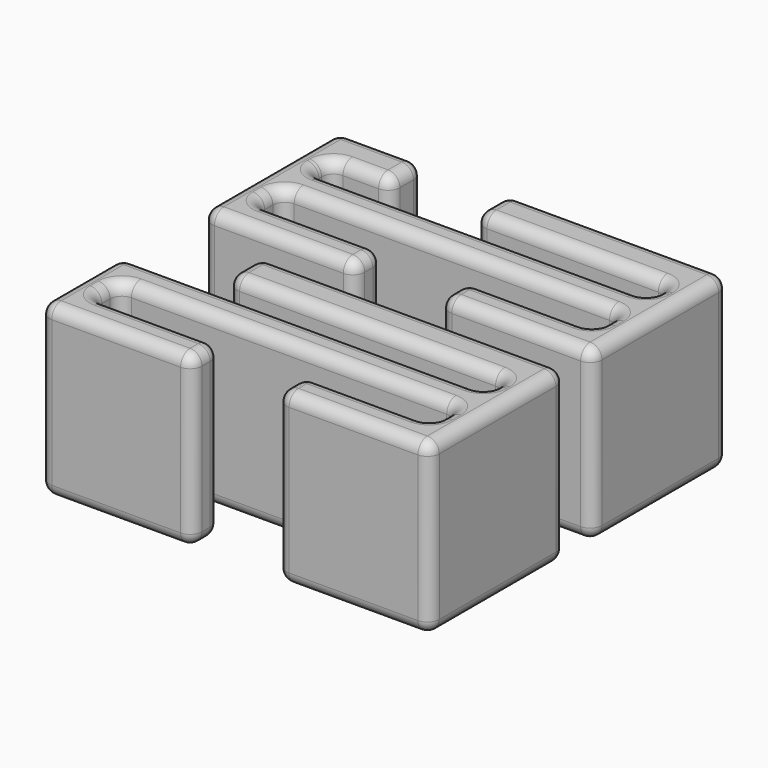
from build123d import *

# Parameters (mm, degrees)
BOX014_W     = 5
BOX014_H     = 3
BOX014_DEPTH = 10
BOX008_W     = 5
BOX008_H     = 2.5
BOX008_DEPTH = 10
BOX007_W     = 20
BOX007_H     = 2
BOX007_DEPTH = 10
BOX006_W     = 20
BOX006_H     = 1.6
BOX006_DEPTH = 10
BOX005_W     = 23
BOX005_H     = 10
BOX005_DEPTH = 10
FILLET_R     = 0.7
BOX019_W     = 5
BOX019_H     = 4
BOX019_DEPTH = 10
BOX018_W     = 5
BOX018_H     = 2.5
BOX018_DEPTH = 10
BOX017_W     = 20
BOX017_H     = 2
BOX017_DEPTH = 10
BOX016_W     = 20
BOX016_H     = 1.6
BOX016_DEPTH = 10
BOX015_W     = 23
BOX015_H     = 10
BOX015_DEPTH = 10
FILLET001_R  = 0.7


with BuildPart() as cubo013:
    # Box014 → Box014 (new body)
    with BuildSketch(Plane(origin=(5, 7.5, 0), x_dir=(1, 0, 0), z_dir=(0, 0, 1))):
        with Locations((2.5, 1.5)):
            Rectangle(BOX014_W, BOX014_H)
    extrude(amount=BOX014_DEPTH)


with BuildPart() as cubo008:
    # Box008 → Box008 (new body)
    with BuildSketch(Plane(origin=(9, 0, 0), x_dir=(1, 0, 0), z_dir=(0, 0, 1))):
        with Locations((2.5, 1.25)):
            Rectangle(BOX008_W, BOX008_H)
    extrude(amount=BOX008_DEPTH)


with BuildPart() as cubo007:
    # Box007 → Box007 (new body)
    with BuildSketch(Plane(origin=(1.5, 2, 0), x_dir=(1, 0, 0), z_dir=(0, 0, 1))):
        with Locations((10, 1)):
            Rectangle(BOX007_W, BOX007_H)
    extrude(amount=BOX007_DEPTH)


with BuildPart() as cubo006:
    # Box006 → Box006 (new body)
    with BuildSketch(Plane(origin=(1.5, 6, 0), x_dir=(1, 0, 0), z_dir=(0, 0, 1))):
        with Locations((10, 0.8)):
            Rectangle(BOX006_W, BOX006_H)
    extrude(amount=BOX006_DEPTH)


with BuildPart() as fillet_body:
    # Box005 → Box005 (new body)
    with BuildSketch(Plane.XY):
        with Locations((11.5, 5)):
            Rectangle(BOX005_W, BOX005_H)
    extrude(amount=BOX005_DEPTH)

    # Cut: cut Cubo006
    add(cubo006.part, mode=Mode.SUBTRACT)

    # Cut001: cut Cubo007
    add(cubo007.part, mode=Mode.SUBTRACT)

    # Cut002: cut Cubo008
    add(cubo008.part, mode=Mode.SUBTRACT)

    # Cut003: cut Cubo013
    add(cubo013.part, mode=Mode.SUBTRACT)

    # Fillet
    fillet_edges = [fillet_body.edges().sort_by_distance(p)[0] for p in [
        (0, 0, 5),
        (0, 5, 10),
        (0, 10, 5),
        (0, 5, 0),
        (4.5, 0, 0),
        (9, 0, 5),
        (4.5, 0, 10),
        (2.5, 10, 10),
        (5, 8.8, 10),
        (3.25, 7.6, 10),
        (1.5, 6.8, 10),
        (11.5, 6, 10),
        (21.5, 6.8, 10),
        (15.75, 7.6, 10),
        (10, 8.8, 10),
        (16.5, 10, 10),
        (23, 5, 10),
        (18.5, 0, 10),
        (14, 1, 10),
        (17.75, 2, 10),
        (21.5, 3, 10),
        (11.5, 4, 10),
        (1.5, 3, 10),
        (5.25, 2, 10),
        (9, 1, 10),
        (2.5, 10, 0),
        (5, 10, 5),
        (5, 8.8, 0),
        (3.25, 7.6, 0),
        (1.5, 6.8, 0),
        (11.5, 6, 0),
        (21.5, 6.8, 0),
        (15.75, 7.6, 0),
        (10, 8.8, 0),
        (16.5, 10, 0),
        (23, 5, 0),
        (18.5, 0, 0),
        (14, 1, 0),
        (17.75, 2, 0),
        (21.5, 3, 0),
        (11.5, 4, 0),
        (1.5, 3, 0),
        (5.25, 2, 0),
        (9, 1, 0),
        (9, 2, 5),
        (5, 7.6, 5),
        (1.5, 7.6, 5),
        (1.5, 6, 5),
        (21.5, 6, 5),
        (21.5, 7.6, 5),
        (10, 7.6, 5),
        (10, 10, 5),
        (23, 10, 5),
        (23, 0, 5),
        (14, 0, 5),
        (14, 2, 5),
        (21.5, 2, 5),
        (21.5, 4, 5),
        (1.5, 4, 5),
        (1.5, 2, 5),
    ]]
    fillet(fillet_edges, radius=FILLET_R)


with BuildPart() as cubo017:
    # Box019 → Box019 (new body)
    with BuildSketch(Plane(origin=(0, 6, 0), x_dir=(1, 0, 0), z_dir=(0, 0, 1))):
        with Locations((2.5, 2)):
            Rectangle(BOX019_W, BOX019_H)
    extrude(amount=BOX019_DEPTH)


with BuildPart() as cubo016:
    # Box018 → Box018 (new body)
    with BuildSketch(Plane(origin=(9, 0, 0), x_dir=(1, 0, 0), z_dir=(0, 0, 1))):
        with Locations((2.5, 1.25)):
            Rectangle(BOX018_W, BOX018_H)
    extrude(amount=BOX018_DEPTH)


with BuildPart() as cubo015:
    # Box017 → Box017 (new body)
    with BuildSketch(Plane(origin=(1.5, 2, 0), x_dir=(1, 0, 0), z_dir=(0, 0, 1))):
        with Locations((10, 1)):
            Rectangle(BOX017_W, BOX017_H)
    extrude(amount=BOX017_DEPTH)


with BuildPart() as cubo014:
    # Box016 → Box016 (new body)
    with BuildSketch(Plane(origin=(1.5, 6, 0), x_dir=(1, 0, 0), z_dir=(0, 0, 1))):
        with Locations((10, 0.8)):
            Rectangle(BOX016_W, BOX016_H)
    extrude(amount=BOX016_DEPTH)


with BuildPart() as fillet001:
    # Box015 → Box015 (new body)
    with BuildSketch(Plane.XY):
        with Locations((11.5, 5)):
            Rectangle(BOX015_W, BOX015_H)
    extrude(amount=BOX015_DEPTH)

    # Cut004: cut Cubo014
    add(cubo014.part, mode=Mode.SUBTRACT)

    # Cut005: cut Cubo015
    add(cubo015.part, mode=Mode.SUBTRACT)

    # Cut006: cut Cubo016
    add(cubo016.part, mode=Mode.SUBTRACT)

    # Cut007: cut Cubo017
    add(cubo017.part, mode=Mode.SUBTRACT)


with BuildPart() as fillet001_1:
    # Cut007 placement: moved
    add(fillet001.part.moved(Location((0, -12, 0))))

    # Fillet001
    fillet001_edges = [fillet001_1.edges().sort_by_distance(p)[0] for p in [
        (0, -9, 10),
        (0, -6, 5),
        (0, -9, 0),
        (0, -12, 5),
        (14, -2, 10),
        (23, -7, 10),
        (18.5, -12, 10),
        (14, -11, 10),
        (17.75, -10, 10),
        (21.5, -9, 10),
        (11.5, -8, 10),
        (1.5, -9, 10),
        (5.25, -10, 10),
        (9, -11, 10),
        (4.5, -12, 10),
        (0.75, -6, 10),
        (3.25, -6, 10),
        (13.25, -6, 10),
        (21.5, -5.2, 10),
        (13.25, -4.4, 10),
        (5, -3.2, 10),
        (0.75, -6, 0),
        (1.5, -6, 5),
        (14, -2, 0),
        (23, -7, 0),
        (18.5, -12, 0),
        (14, -11, 0),
        (17.75, -10, 0),
        (21.5, -9, 0),
        (11.5, -8, 0),
        (1.5, -9, 0),
        (5.25, -10, 0),
        (9, -11, 0),
        (4.5, -12, 0),
        (3.25, -6, 0),
        (13.25, -6, 0),
        (21.5, -5.2, 0),
        (13.25, -4.4, 0),
        (5, -3.2, 0),
        (9, -12, 5),
        (23, -2, 5),
        (5, -2, 5),
        (23, -12, 5),
        (14, -12, 5),
        (14, -10, 5),
        (21.5, -10, 5),
        (21.5, -8, 5),
        (1.5, -8, 5),
        (1.5, -10, 5),
        (9, -10, 5),
        (5, -6, 5),
        (21.5, -6, 5),
        (21.5, -4.4, 5),
        (5, -4.4, 5),
    ]]
    fillet(fillet001_edges, radius=FILLET001_R)


solid = Compound([fillet_body.part, fillet001_1.part])
